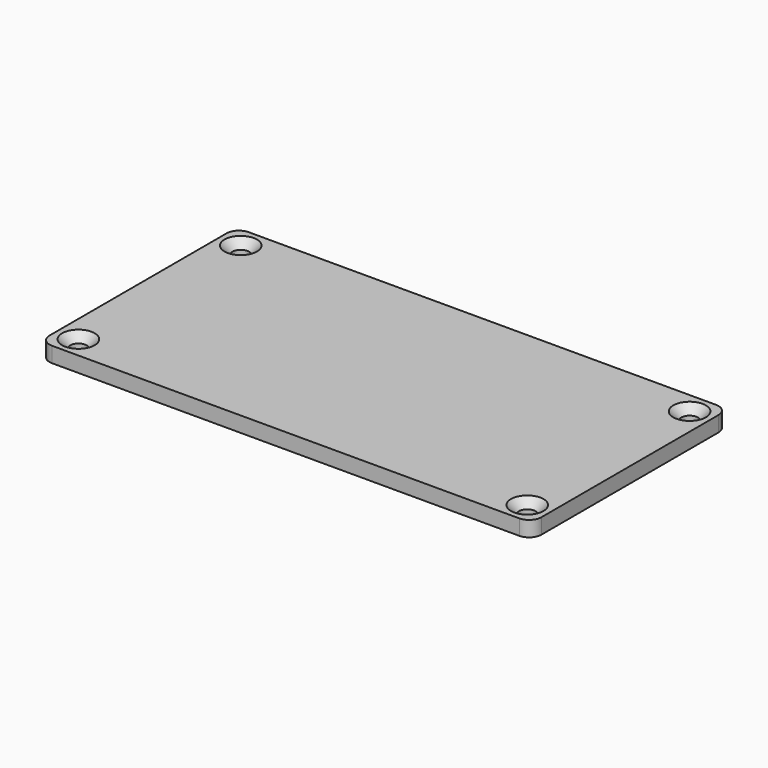
from build123d import *

# Parameters (mm, degrees)
F0_W           = 101.6
F0_H           = 50.8
F1_DEPTH       = 3.175
F2_R           = 2.54
F4_D           = 3.4
F4_CSINK_D     = 6.72
F4_CSINK_ANGLE = 90


with BuildPart() as f1:
    # F0 (on Top) → F1 (new body)
    with BuildSketch(Plane.XY):
        Rectangle(F0_W, F0_H)
    extrude(amount=-F1_DEPTH)

    # F2
    f2_edges = [f1.edges().sort_by_distance(p)[0] for p in [
        (-50.8, -25.4, -1.5875),
        (50.8, -25.4, -1.5875),
        (50.8, 25.4, -1.5875),
        (-50.8, 25.4, -1.5875),
    ]]
    fillet(f2_edges, radius=F2_R)

    # F4 (through all)
    with Locations(Plane.XY):
        with Locations((-46.355, 20.955), (46.355, 20.955), (46.355, -20.955), (-46.355, -20.955)):
            CounterSinkHole(F4_D / 2, F4_CSINK_D / 2, counter_sink_angle=F4_CSINK_ANGLE)


solid = f1.part
